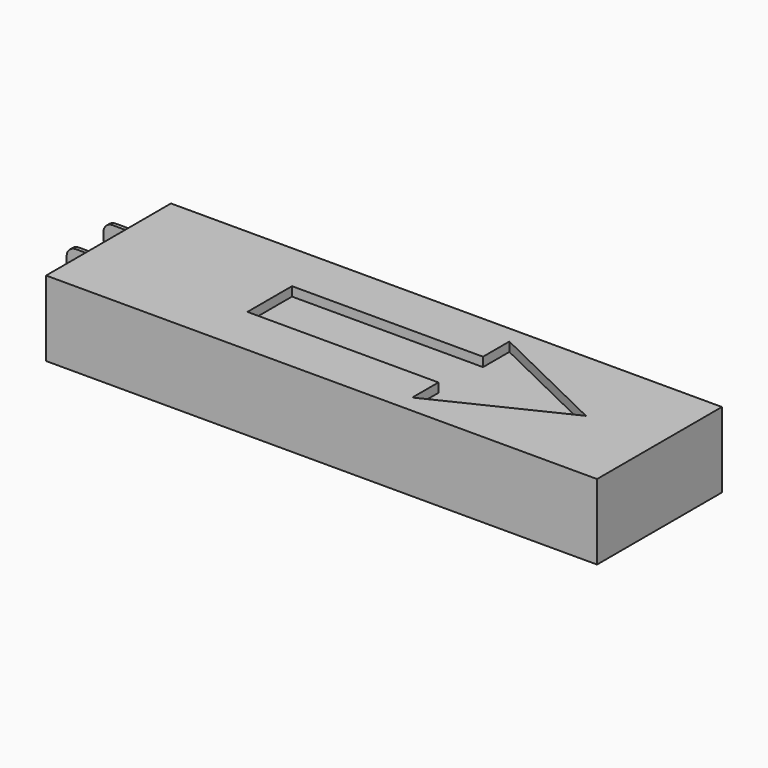
from build123d import *

# Parameters (mm, degrees)
F0_W     = 300
F0_H     = 85
F1_DEPTH = 41
F3_W     = 2
F3_H     = 13
F4_DEPTH = 38
F2_W     = 2
F2_H     = 13
F5_DEPTH = 30
F6_R     = 5
F7_R     = 5
F9_DEPTH = 5


with BuildPart() as f1:
    # F0 (on Top) → F1 (new body)
    with BuildSketch(Plane.XY):
        Rectangle(F0_W, F0_H)
    extrude(amount=F1_DEPTH)

    # F3 (on face) → F4 (join)
    with BuildSketch(Plane(origin=(-150, 0, 0), x_dir=(0, -1, 0), z_dir=(-1, 0, 0))):
        with Locations((-20, 11.4)):
            Rectangle(F3_W, F3_H)
    extrude(amount=F4_DEPTH)

    # F2 (on face) → F5 (join)
    with BuildSketch(Plane(origin=(-150, 0, 0), x_dir=(0, -1, 0), z_dir=(-1, 0, 0))):
        with Locations((-35, 19.4)):
            Rectangle(F2_W, F2_H)
    extrude(amount=F5_DEPTH)

    # F6
    f6_edges = [f1.edges().sort_by_distance(p)[0] for p in [
        (-180, 35, 25.9),
        (-180, 35, 12.9),
    ]]
    fillet(f6_edges, radius=F6_R)

    # F7
    f7_edges = [f1.edges().sort_by_distance(p)[0] for p in [
        (-188, 20, 17.9),
        (-188, 20, 4.9),
    ]]
    fillet(f7_edges, radius=F7_R)

    # F8 (on face) → F9 (cut)
    with BuildSketch(Plane.XY.offset(41)):
        Polygon((-62.218837, -15.168179), (41.771069, -15.168179), (41.771069, -32.973677), (109.962918, 0), (41.771069, 33.099085), (41.771069, 15.168179), (-62.218837, 15.168179), align=None)
    extrude(amount=-F9_DEPTH, mode=Mode.SUBTRACT)


solid = f1.part
